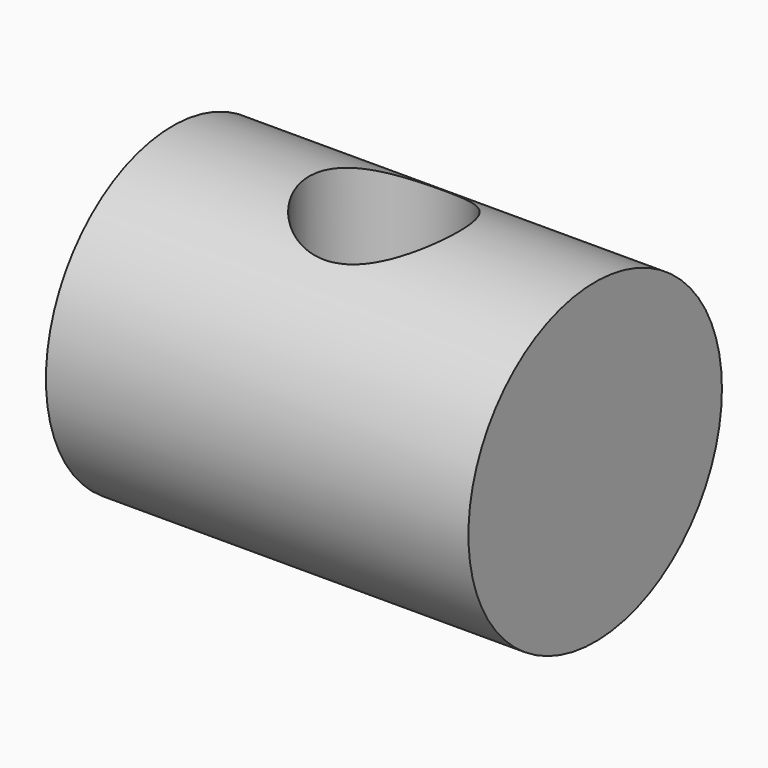
from build123d import *

# Parameters (mm, degrees)
F0_R     = 4.7625
F1_DEPTH = 6.35
F4_D     = 4.4958


with BuildPart() as f1:
    # F0 (on Right) → F1 (new body, symmetric)
    with BuildSketch(Plane.YZ):
        with Locations((0, 33.6422514663)):
            Circle(F0_R)
    extrude(amount=F1_DEPTH, both=True)

    # F4 (through all)
    with Locations(Plane.XY.offset(38.4047514663)):
        with Locations((0, 0)):
            Hole(F4_D / 2)


solid = f1.part
